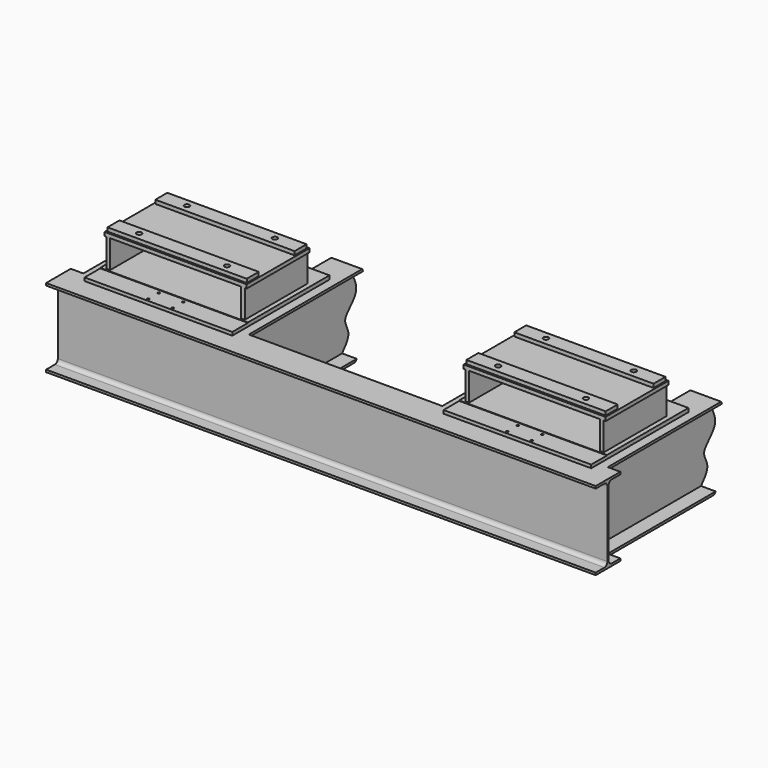
from build123d import *

# Parameters (mm, degrees)
F0_W      = 1003.3
F0_H      = 825.5
F1_DEPTH  = 25.4
F2_W      = 142.6451116562
F2_H      = 17.0538567856
F3_DEPTH  = 1003.301
F5_W      = 965.2
F5_H      = 533.4
F6_DEPTH  = 25.4
F7_W      = 946.15
F7_H      = 101.6
F7_R      = 17.4625
F8_DEPTH  = 25.4
F9_W      = 25.4
F9_H      = 533.4
F10_DEPTH = 190.5
F12_D     = 14.2875
F14_DEPTH = 1866.9
F15_W     = 10.16
F15_H     = 502.158
F16_DEPTH = 3048
F19_DEPTH = 2540


with BuildPart() as f1:
    # F0 (on Top) → F1 (new body)
    with BuildSketch(Plane.XY):
        with Locations((-1219.2, 0)):
            Rectangle(F0_W, F0_H)
    extrude(amount=-F1_DEPTH)

    # F2 (on face) → F3 (cut, through all)
    with BuildSketch(Plane(origin=(-1720.85, 0, 0), x_dir=(0, -1, 0), z_dir=(-1, 0, 0))):
        with Locations((350.7225558281, 5.3519283928)):
            Rectangle(F2_W, F2_H)
    extrude(amount=-F3_DEPTH, mode=Mode.SUBTRACT)



with BuildPart() as f6:
    # F5 (on offset) → F6 (new body)
    with BuildSketch(Plane.XY.offset(215.9)):
        with Locations((-1219.2, 0)):
            Rectangle(F5_W, F5_H)
    extrude(amount=-F6_DEPTH)

    # F7 (on face) → F8 (join)
    with BuildSketch(Plane.XY.offset(215.9)):
        with Locations((-1219.2, 203.2)):
            Rectangle(F7_W, F7_H)
        with Locations((-1517.65, 203.2)):
            Circle(F7_R, mode=Mode.SUBTRACT)
        with Locations((-920.75, 203.2)):
            Circle(F7_R, mode=Mode.SUBTRACT)
        with Locations((-1219.2, -203.2)):
            Rectangle(F7_W, F7_H)
        with Locations((-1517.65, -203.2)):
            Circle(F7_R, mode=Mode.SUBTRACT)
        with Locations((-920.75, -203.2)):
            Circle(F7_R, mode=Mode.SUBTRACT)
    extrude(amount=F8_DEPTH)


with BuildPart() as f1_1:
    add(f1.part)

    add(f6.part)  # F10 merges F6
    # F9 (on face) → F10 (join, through all)
    with BuildSketch(Plane.XY):
        with Locations((-1676.4, 0)):
            Rectangle(F9_W, F9_H)
        Polygon((-774.7, -93.5351401567), (-774.7, -266.7), (-749.3, -266.7), (-749.3, -93.5351401567), (-749.3, 102.8350070119), (-749.3, 266.7), (-774.7, 266.7), align=None)
    extrude(amount=F10_DEPTH)

    # F12 (through all)
    with Locations(Plane.XY):
        with Locations((-1136.65, -306.07), (-1136.65, -394.97), (-1301.75, -306.07), (-1301.75, -394.97)):
            Hole(F12_D / 2)

    # F13 (on Right) → F14 (join, symmetric)
    with BuildSketch(Plane.YZ):
        with BuildLine():
            Line((-452.374, -558.8), (-347.599, -558.8))
            Line((-347.599, -558.8), (-347.599, -543.179))
            Line((-347.599, -543.179), (-421.894, -543.179))
            ThreePointArc((-421.894, -543.179), (-439.8545122421, -535.7395122421), (-447.294, -517.779))
            Line((-447.294, -517.779), (-447.294, -66.421))
            ThreePointArc((-447.294, -66.421), (-439.8545122421, -48.4604877579), (-421.894, -41.021))
            Line((-421.894, -41.021), (-347.599, -41.021))
            Line((-347.599, -41.021), (-347.599, -25.4))
            Line((-347.599, -25.4), (-557.149, -25.4))
            Line((-557.149, -25.4), (-557.149, -41.021))
            Line((-557.149, -41.021), (-482.854, -41.021))
            ThreePointArc((-482.854, -41.021), (-464.8934877579, -48.4604877579), (-457.454, -66.421))
            Line((-457.454, -66.421), (-457.454, -517.779))
            ThreePointArc((-457.454, -517.779), (-464.8934877579, -535.7395122421), (-482.854, -543.179))
            Line((-482.854, -543.179), (-557.149, -543.179))
            Line((-557.149, -543.179), (-557.149, -558.8))
            Line((-557.149, -558.8), (-452.374, -558.8))
        make_face()
    extrude(amount=F14_DEPTH, both=True)

    # F15 (on face) → F16 (join)
    with BuildSketch(Plane(origin=(0, -447.294, 0), x_dir=(-1, 0, 0), z_dir=(0, 1, 0))):
        Polygon((866.775, -25.4), (657.225, -25.4), (657.225, -41.021), (756.92, -41.021), (767.08, -41.021), (866.775, -41.021), align=None)
        with Locations((762, -292.1)):
            Rectangle(F15_W, F15_H)
        Polygon((767.08, -543.179), (756.92, -543.179), (657.225, -543.179), (657.225, -558.8), (866.775, -558.8), (866.775, -543.179), align=None)
        Polygon((1781.175, -558.8), (1781.175, -543.179), (1681.48, -543.179), (1671.32, -543.179), (1571.625, -543.179), (1571.625, -558.8), align=None)
        with Locations((1676.4, -292.1)):
            Rectangle(F15_W, F15_H)
        Polygon((1671.32, -41.021), (1681.48, -41.021), (1781.175, -41.021), (1781.175, -25.4), (1571.625, -25.4), (1571.625, -41.021), align=None)
    extrude(amount=F16_DEPTH)

    # F17: F1 across plane


with BuildPart() as f1_2:
    add(f1_1.part)
    add(f1_1.part.mirror(Plane.YZ))

    # F18 (on Right) → F19 (cut, symmetric)
    with BuildSketch(Plane.YZ):
        with BuildLine():
            add(Edge.make_bspline(
                [(708.2656025887, 103.3876091242), (641.1749434525, 78.5183948918), (552.4196479847, 9.5447541126), (767.6917186692, -225.1260943114), (541.1125179088, -343.5553983393), (682.096050769, -464.2172095963), (325.8415111766, -721.9621989836), (1403.4451342087, -607.1896129069), (2898.6466672843, -1071.9588704214), (2715.848186598, 309.5921803392), (2022.7134202953, 237.5737589644), (1406.7032072343, 212.8088595096), (853.3756058554, 157.1770904762), (708.2656025887, 103.3876091242)],
                knots=[0, 0, 0, 0, 0.0512721219, 0.1161701351, 0.1709148708, 0.2163578731, 0.2756539803, 0.3973145065, 0.5535763296, 0.6762567819, 0.7774438861, 0.8891038205, 1, 1, 1, 1], degree=3))
        make_face()
    extrude(amount=F19_DEPTH, both=True, mode=Mode.SUBTRACT)


solid = f1_2.part
